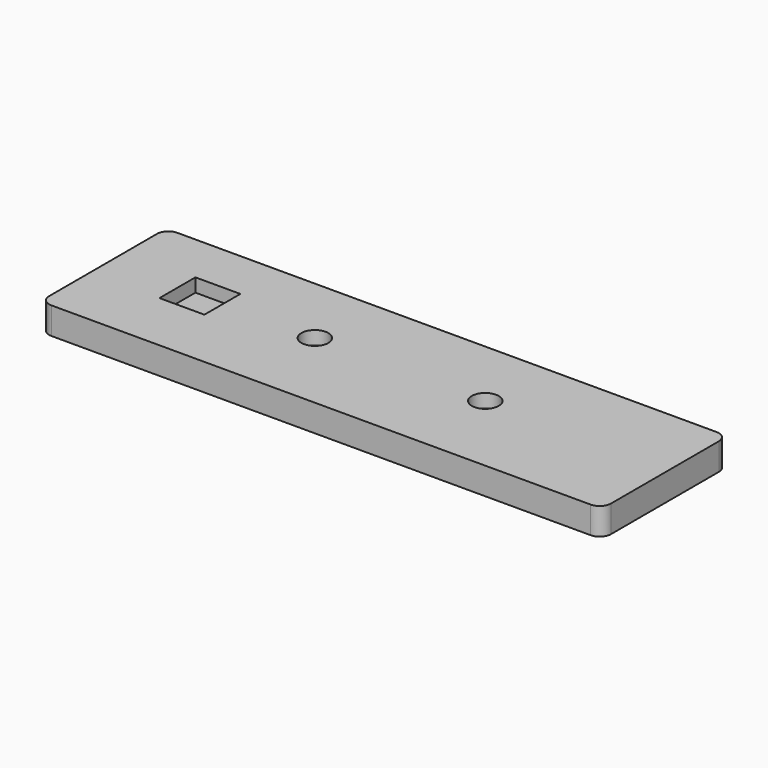
from build123d import *

# Parameters (mm, degrees)
F0_W          = 250
F0_H          = 70
F1_DEPTH      = 12
F2_R          = 3.25
F3_DEPTH      = 25
F4_R          = 6
F5_DEPTH      = 6
F6_W          = 20
F6_H          = 20
F7_DEPTH      = 6
F8_W          = 20
F8_H          = 3
F9_DEPTH      = 20
F9_DEPTH_BACK = 25
F10_R         = 5


with BuildPart() as f1:
    # F0 (on Top) → F1 (new body)
    with BuildSketch(Plane.XY):
        with Locations((-3.651918, -3.040215)):
            Rectangle(F0_W, F0_H)
    extrude(amount=F1_DEPTH)

    # F2 (on face) → F3 (cut)
    with BuildSketch(Plane.XY.offset(12)):
        with Locations((-36.843423, 0)):
            Circle(F2_R)
        with Locations((38.979828, 0)):
            Circle(F2_R)
    extrude(amount=-F3_DEPTH, mode=Mode.SUBTRACT)

    # F4 (on face) → F5 (cut)
    with BuildSketch(Plane.XY.offset(12)):
        with Locations((-36.843423, 0)):
            Circle(F4_R)
        with Locations((38.979828, 0)):
            Circle(F4_R)
    extrude(amount=-F5_DEPTH, mode=Mode.SUBTRACT)

    # F6 (on face) → F7 (cut)
    with BuildSketch(Plane.XY.offset(12)):
        with Locations((-87.782149, -0.293668)):
            Rectangle(F6_W, F6_H)
    extrude(amount=-F7_DEPTH, mode=Mode.SUBTRACT)

    # F8 (on face) → F9 (cut, two sides)
    with BuildSketch(Plane(origin=(-77.782149, 0, 0), x_dir=(0, -1, 0), z_dir=(-1, 0, 0))) as f9_sk:
        with Locations((0.293668, 7.5)):
            Rectangle(F8_W, F8_H)
    extrude(amount=F9_DEPTH, mode=Mode.SUBTRACT)
    extrude(f9_sk.sketch, amount=-F9_DEPTH_BACK, mode=Mode.SUBTRACT)

    # F10
    f10_edges = [f1.edges().sort_by_distance(p)[0] for p in [
        (-128.651918, -38.040215, 6),
        (-128.651918, 31.959785, 6),
        (121.348082, -38.040215, 6),
        (121.348082, 31.959785, 6),
    ]]
    fillet(f10_edges, radius=F10_R)


solid = f1.part
